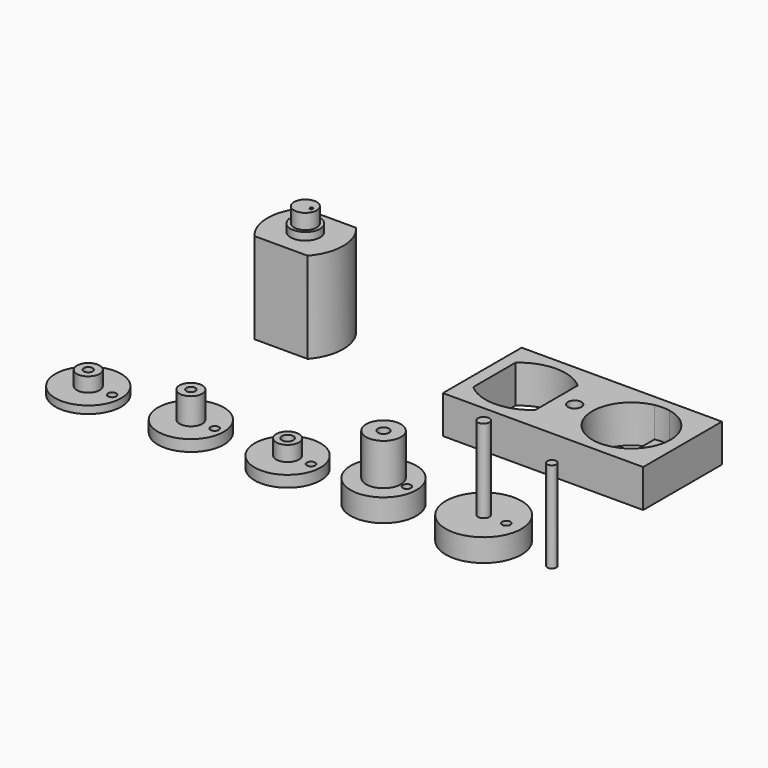
from build123d import *

# Parameters (mm, degrees)
F0_R      = 5
F0_R_2    = 0.75
F0_R_3    = 0.5485666416
F1_DEPTH  = 3
F2_DEPTH  = 14
F0_R_4    = 4.35
F0_R_5    = 2.3
F3_DEPTH  = 3
F0_R_6    = 0.745
F4_DEPTH  = 8.5
F0_R_7    = 1.5
F5_DEPTH  = 1.5
F0_R_8    = 0.755
F6_DEPTH  = 3.5
F7_DEPTH  = 1.5
F0_R_9    = 0.595
F8_DEPTH  = 5
F9_DEPTH  = 1
F10_DEPTH = 2.9
F0_R_10   = 0.6
F11_DEPTH = 12
F0_W      = 26.45
F0_H      = 13
F0_R_11   = 0.9
F12_DEPTH = 6
F13_DEPTH = 3
F14_DEPTH = 1
F0_R_12   = 2
F15_DEPTH = 5
F0_R_13   = 1.95
F16_DEPTH = 12
F17_DEPTH = 13
F0_R_14   = 0.2
F18_DEPTH = 15
F19_DEPTH = 1


with BuildPart() as f1:
    # F0 (on Top) → F1 (new body)
    with BuildSketch(Plane.XY):
        with Locations((19.2721644416, -7.2962273844)):
            Circle(F0_R)
        with Locations((19.2721644416, -7.2962273844)):
            Circle(F0_R_2, mode=Mode.SUBTRACT)
        with Locations((22.2685411572, -7.2962273844)):
            Circle(F0_R_3, mode=Mode.SUBTRACT)
    extrude(amount=F1_DEPTH)

    # F0 (on Top) → F2 (join)
    with BuildSketch(Plane.XY):
        with Locations((19.2721644416, -7.2962273844)):
            Circle(F0_R_2)
    extrude(amount=F2_DEPTH)

    # F0 (on Top) → F15 (cut)
    with BuildSketch(Plane.XY):
        with BuildLine():
            ThreePointArc((11.1960465208, 18.3255350873), (7.0960465208, 19.8755350873), (2.9960465208, 18.3255350873))
            Line((2.9960465208, 18.3255350873), (2.9960465208, 14.8255350873))
            Line((2.9960465208, 14.8255350873), (2.9960465208, 11.3255350873))
            ThreePointArc((2.9960465208, 11.3255350873), (7.0960465208, 9.7755350873), (11.1960465208, 11.3255350873))
            Line((11.1960465208, 11.3255350873), (11.1960465208, 14.8255350873))
            Line((11.1960465208, 14.8255350873), (11.1960465208, 18.3255350873))
        make_face()
        with Locations((7.0960465208, 14.8255350873)):
            Circle(F0_R_12, mode=Mode.SUBTRACT)
    extrude(amount=F15_DEPTH, mode=Mode.SUBTRACT)


with BuildPart() as f3:
    # F0 (on Top) → F3 (new body)
    with BuildSketch(Plane.XY):
        with Locations((6.0497364029, -7.2962273844)):
            Circle(F0_R_4)
        with Locations((6.0497364029, -7.2962273844)):
            Circle(F0_R_5, mode=Mode.SUBTRACT)
        with Locations((9.134166874, -7.2962273844)):
            Circle(F0_R_3, mode=Mode.SUBTRACT)
    extrude(amount=F3_DEPTH)

    # F0 (on Top) → F4 (join)
    with BuildSketch(Plane.XY):
        with Locations((6.0497364029, -7.2962273844)):
            Circle(F0_R_5)
        with Locations((6.0497364029, -7.2962273844)):
            Circle(F0_R_6, mode=Mode.SUBTRACT)
    extrude(amount=F4_DEPTH)


with BuildPart() as f5:
    # F0 (on Top) → F5 (new body)
    with BuildSketch(Plane.XY):
        with Locations((-6.6171297804, -7.2962273844)):
            Circle(F0_R_4)
        with Locations((-6.6171297804, -7.2962273844)):
            Circle(F0_R_7, mode=Mode.SUBTRACT)
        with Locations((-3.5293828696, -7.2962273844)):
            Circle(F0_R_3, mode=Mode.SUBTRACT)
    extrude(amount=F5_DEPTH)

    # F0 (on Top) → F6 (join)
    with BuildSketch(Plane.XY):
        with Locations((-6.6171297804, -7.2962273844)):
            Circle(F0_R_7)
        with Locations((-6.6171297804, -7.2962273844)):
            Circle(F0_R_8, mode=Mode.SUBTRACT)
    extrude(amount=F6_DEPTH)


with BuildPart() as f7:
    # F0 (on Top) → F7 (new body)
    with BuildSketch(Plane.XY):
        with Locations((-19.3951069377, -7.2962273844)):
            Circle(F0_R_4)
        with Locations((-19.3951069377, -7.2962273844)):
            Circle(F0_R_7, mode=Mode.SUBTRACT)
        with Locations((-16.2510535447, -7.2962273844)):
            Circle(F0_R_3, mode=Mode.SUBTRACT)
    extrude(amount=F7_DEPTH)

    # F0 (on Top) → F8 (join)
    with BuildSketch(Plane.XY):
        with Locations((-19.3951069377, -7.2962273844)):
            Circle(F0_R_7)
        with Locations((-19.3951069377, -7.2962273844)):
            Circle(F0_R_9, mode=Mode.SUBTRACT)
    extrude(amount=F8_DEPTH)


with BuildPart() as f9:
    # F0 (on Top) → F9 (new body)
    with BuildSketch(Plane.XY):
        with Locations((-32.9508734867, -7.2962273844)):
            Circle(F0_R_4)
        with Locations((-32.9508734867, -7.2962273844)):
            Circle(F0_R_7, mode=Mode.SUBTRACT)
        with Locations((-29.8060197383, -7.2962273844)):
            Circle(F0_R_3, mode=Mode.SUBTRACT)
    extrude(amount=F9_DEPTH)

    # F0 (on Top) → F10 (join)
    with BuildSketch(Plane.XY):
        with Locations((-32.9508734867, -7.2962273844)):
            Circle(F0_R_7)
        with Locations((-32.9508734867, -7.2962273844)):
            Circle(F0_R_9, mode=Mode.SUBTRACT)
    extrude(amount=F10_DEPTH)


with BuildPart() as f11:
    # F0 (on Top) → F11 (new body)
    with BuildSketch(Plane.XY):
        with Locations((28.2754683867, -7.2962273844)):
            Circle(F0_R_10)
    extrude(amount=F11_DEPTH)


with BuildPart() as f12:
    # F0 (on Top) → F12 (new body)
    with BuildSketch(Plane.XY):
        with Locations((14.6210465208, 14.8255350873)):
            Rectangle(F0_W, F0_H)
        with BuildLine():
            Line((2.9960465208, 14.8255350873), (2.9960465208, 18.3255350873))
            ThreePointArc((2.9960465208, 18.3255350873), (7.0960465208, 19.8755350873), (11.1960465208, 18.3255350873))
            Line((11.1960465208, 18.3255350873), (11.1960465208, 14.8255350873))
            Line((11.1960465208, 14.8255350873), (11.1960465208, 11.3255350873))
            ThreePointArc((11.1960465208, 11.3255350873), (7.0960465208, 9.7755350873), (2.9960465208, 11.3255350873))
            Line((2.9960465208, 11.3255350873), (2.9960465208, 14.8255350873))
        make_face(mode=Mode.SUBTRACT)
        with Locations((13.5960465208, 14.8255350873)):
            Circle(F0_R_11, mode=Mode.SUBTRACT)
        with BuildLine():
            ThreePointArc((22.0960465208, 19.8775148972), (25.0755251298, 18.0945181096), (26.2460465208, 14.8255350873))
            ThreePointArc((26.2460465208, 14.8255350873), (25.0755251298, 11.556552065), (22.0960465208, 9.7735552774))
            ThreePointArc((22.0960465208, 9.7735552774), (21.0960465208, 9.6755350873), (20.0960465208, 9.7735552774))
            ThreePointArc((20.0960465208, 9.7735552774), (15.9460465208, 14.8255350873), (20.0960465208, 19.8775148972))
            ThreePointArc((20.0960465208, 19.8775148972), (21.0960465208, 19.9755350873), (22.0960465208, 19.8775148972))
        make_face(mode=Mode.SUBTRACT)
        with Locations((14.6210465208, 14.8255350873)):
            Rectangle(F0_W, F0_H)
        with BuildLine():
            Line((2.9960465208, 14.8255350873), (2.9960465208, 18.3255350873))
            ThreePointArc((2.9960465208, 18.3255350873), (7.0960465208, 19.8755350873), (11.1960465208, 18.3255350873))
            Line((11.1960465208, 18.3255350873), (11.1960465208, 14.8255350873))
            Line((11.1960465208, 14.8255350873), (11.1960465208, 11.3255350873))
            ThreePointArc((11.1960465208, 11.3255350873), (7.0960465208, 9.7755350873), (2.9960465208, 11.3255350873))
            Line((2.9960465208, 11.3255350873), (2.9960465208, 14.8255350873))
        make_face(mode=Mode.SUBTRACT)
        with Locations((13.5960465208, 14.8255350873)):
            Circle(F0_R_11, mode=Mode.SUBTRACT)
        with BuildLine():
            ThreePointArc((22.0960465208, 19.8775148972), (25.0755251298, 18.0945181096), (26.2460465208, 14.8255350873))
            ThreePointArc((26.2460465208, 14.8255350873), (25.0755251298, 11.556552065), (22.0960465208, 9.7735552774))
            ThreePointArc((22.0960465208, 9.7735552774), (21.0960465208, 9.6755350873), (20.0960465208, 9.7735552774))
            ThreePointArc((20.0960465208, 9.7735552774), (15.9460465208, 14.8255350873), (20.0960465208, 19.8775148972))
            ThreePointArc((20.0960465208, 19.8775148972), (21.0960465208, 19.9755350873), (22.0960465208, 19.8775148972))
        make_face(mode=Mode.SUBTRACT)
    extrude(amount=F12_DEPTH)

    # F0 (on Top) → F13 (join)
    with BuildSketch(Plane.XY):
        with Locations((13.5960465208, 14.8255350873)):
            Circle(F0_R_11)
    extrude(amount=F13_DEPTH)

    # F0 (on Top) → F14 (join)
    with BuildSketch(Plane.XY):
        with BuildLine():
            Line((22.0960465208, 16.8775148972), (22.0960465208, 19.8775148972))
            ThreePointArc((22.0960465208, 19.8775148972), (21.0960465208, 19.9755350873), (20.0960465208, 19.8775148972))
            Line((20.0960465208, 19.8775148972), (20.0960465208, 16.8775148972))
            Line((20.0960465208, 16.8775148972), (22.0960465208, 16.8775148972))
        make_face()
        with BuildLine():
            ThreePointArc((20.0960465208, 9.7735552774), (21.0960465208, 9.6755350873), (22.0960465208, 9.7735552774))
            Line((22.0960465208, 9.7735552774), (22.0960465208, 12.7735552774))
            Line((22.0960465208, 12.7735552774), (20.0960465208, 12.7735552774))
            Line((20.0960465208, 12.7735552774), (20.0960465208, 9.7735552774))
        make_face()
    extrude(amount=F14_DEPTH)

    # F19 (cut): a face of the model
    f19_faces = [f12.faces().sort_by_distance(p)[0] for p in [
        (14.7636825054, 14.8255350873, 6),
    ]]
    extrude(f19_faces, amount=-F19_DEPTH, mode=Mode.SUBTRACT)


with BuildPart() as f16:
    # F0 (on Top) → F16 (new body)
    with BuildSketch(Plane.XY):
        with BuildLine():
            Line((-20.2644714117, 21.0636980757), (-27.2644714117, 21.0636980757))
            ThreePointArc((-27.2644714117, 21.0636980757), (-28.7644714117, 17.0636980757), (-27.2644714117, 13.0636980757))
            Line((-27.2644714117, 13.0636980757), (-20.2644714117, 13.0636980757))
            ThreePointArc((-20.2644714117, 13.0636980757), (-18.7644714117, 17.0636980757), (-20.2644714117, 21.0636980757))
        make_face()
        with Locations((-23.7644714117, 17.0636980757)):
            Circle(F0_R_13, mode=Mode.SUBTRACT)
    extrude(amount=F16_DEPTH)

    # F0 (on Top) → F17 (join)
    with BuildSketch(Plane.XY):
        with Locations((-23.7644714117, 17.0636980757)):
            Circle(F0_R_13)
        with Locations((-23.7644714117, 17.0636980757)):
            Circle(F0_R_7, mode=Mode.SUBTRACT)
    extrude(amount=F17_DEPTH)


with BuildPart() as f18:
    # F0 (on Top) → F18 (new body)
    with BuildSketch(Plane.XY):
        with Locations((-23.7644714117, 17.0636980757)):
            Circle(F0_R_7)
        with Locations((-22.9644714117, 17.0636980757)):
            Circle(F0_R_14, mode=Mode.SUBTRACT)
    extrude(amount=F18_DEPTH)


solid = Compound([f1.part, f3.part, f5.part, f7.part, f9.part, f11.part, f12.part, f16.part, f18.part])
